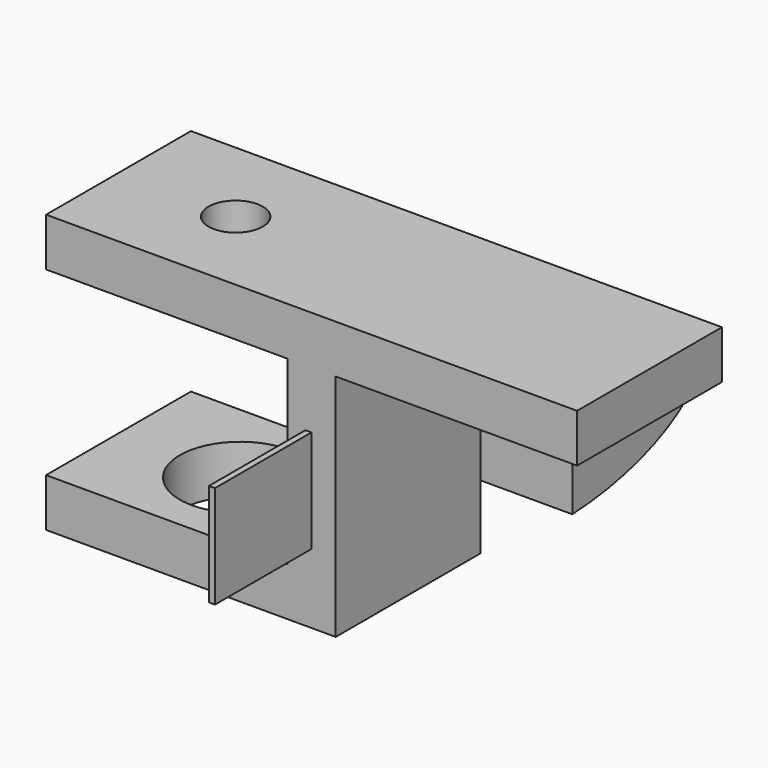
from build123d import *

# Parameters (mm, degrees)
F0_W     = 4
F0_H     = 15
F1_DEPTH = 15
F2_R     = 5
F3_DEPTH = 4.001
F4_R     = 2.25
F5_DEPTH = 4.001
F6_W     = 0.5
F6_H     = 8.5
F7_DEPTH = 10
F9_DEPTH = 7.6


with BuildPart() as f1:
    # F0 (on Front) → F1 (new body)
    with BuildSketch(Plane.XZ):
        Polygon((24, 0), (24, 4), (20, 4), (0, 4), (0, 0), align=None)
        with Locations((22, 11.5)):
            Rectangle(F0_W, F0_H)
        Polygon((20, 19), (24, 19), (44, 19), (44, 23), (0, 23), (0, 19), align=None)
    extrude(amount=F1_DEPTH)

    # F2 (on face) → F3 (cut, through all)
    with BuildSketch(Plane.XY.offset(4)):
        with Locations((10.0069084136, -7.405173449)):
            Circle(F2_R)
    extrude(amount=-F3_DEPTH, mode=Mode.SUBTRACT)

    # F4 (on face) → F5 (cut, through all)
    with BuildSketch(Plane(origin=(0, 0, 19), x_dir=(1, 0, 0), z_dir=(0, 0, -1))):
        with Locations((9.7508328035, 7.5500439852)):
            Circle(F4_R)
    extrude(amount=-F5_DEPTH, mode=Mode.SUBTRACT)

    # F6 (on face) → F7 (join)
    with BuildSketch(Plane.XZ.offset(15)):
        with Locations((21.7435011119, 10.0171177201)):
            Rectangle(F6_W, F6_H)
    extrude(amount=F7_DEPTH)

    # F8 (on face) → F9 (join, symmetric)
    with BuildSketch(Plane.YZ.offset(24)):
        with BuildLine():
            add(Edge.make_bspline(
                [(0, 15.6954114159), (6.5394724086, 14.608579241), (18.6393490716, 13.3520301619), (9.1807042924, 5.7328406438), (0, 5.3214114159)],
                knots=[0, 0, 0, 0, 0.4915313854, 1, 1, 1, 1], degree=3))
            Line((0, 15.6954114159), (0, 5.3214114159))
        make_face()
    extrude(amount=F9_DEPTH, both=True)


solid = f1.part
